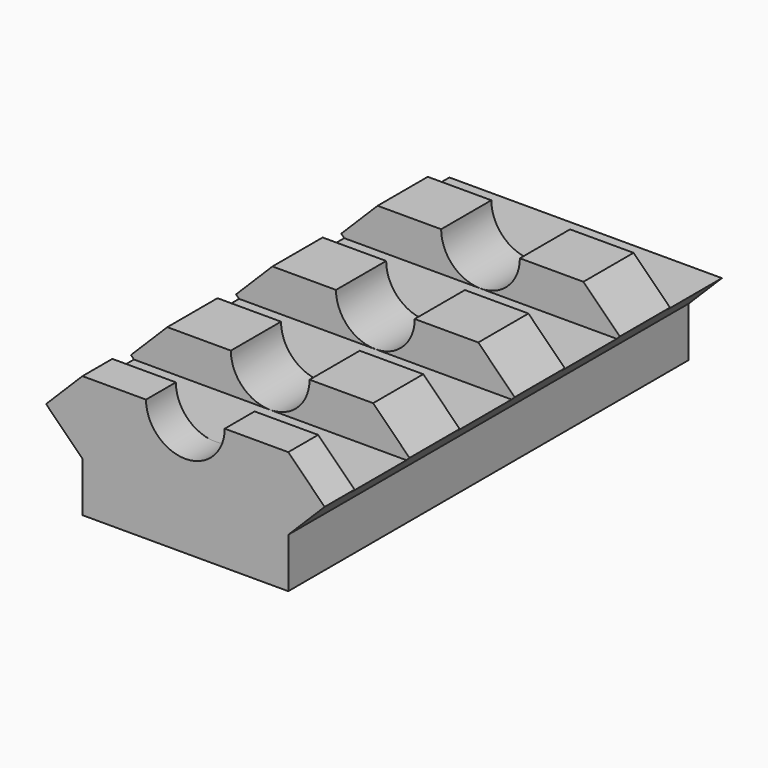
from build123d import *

# Parameters (mm, degrees)
F1_DEPTH = 38.1
F2_DEPTH = 25.4
F3_W     = 5.2324
F3_H     = 2.9972
F3_W_2   = 2.6162
F4_DEPTH = 12.7
F5_R     = 2.9972
F6_DEPTH = 38.1


with BuildPart() as f1:
    # F0 (on Front) → F1 (new body)
    with BuildSketch(Plane.XZ):
        Polygon((7.8359, 0), (-7.8359, 0), (-10.6045, -2.7686), (-9.2202, -4.1529), (-9.2075, -4.1656), (-7.8359, -5.5372), (-7.8359, -9.3218), (7.8359, -9.3218), (7.8359, -5.5372), (10.6045, -2.7686), align=None)
    extrude(amount=F1_DEPTH)

    # F0 (on Front) → F2 (join)
    with BuildSketch(Plane.XZ):
        Polygon((7.8359, 0), (-7.8359, 0), (-10.6045, -2.7686), (-9.2202, -4.1529), (-9.2075, -4.1656), (-7.8359, -5.5372), (-7.8359, -9.3218), (7.8359, -9.3218), (7.8359, -5.5372), (10.6045, -2.7686), align=None)
        Polygon((-9.2075, -4.1656), (-9.2202, -4.1529), (-9.2202, -4.1656), align=None)
    extrude(amount=F2_DEPTH)

    # F3 (on Right) → F4 (cut, symmetric)
    with BuildSketch(Plane.YZ):
        with Locations((-2.6162, -1.4986)):
            Rectangle(F3_W, F3_H)
        with Locations((-11.3157, -1.4986)):
            Rectangle(F3_W_2, F3_H)
        with Locations((-13.9319, -1.4986)):
            Rectangle(F3_W_2, F3_H)
        with Locations((-21.3233, -1.4986)):
            Rectangle(F3_W_2, F3_H)
        with Locations((-23.9395, -1.4986)):
            Rectangle(F3_W_2, F3_H)
        with Locations((-32.639, -1.4986)):
            Rectangle(F3_W, F3_H)
        with Locations((-42.6466, -1.4986)):
            Rectangle(F3_W, F3_H)
    extrude(amount=F4_DEPTH, both=True, mode=Mode.SUBTRACT)

    # F5 (on face) → F6 (cut)
    with BuildSketch(Plane(origin=(0, 0, 0), x_dir=(-1, 0, 0), z_dir=(0, 1, 0))):
        Circle(F5_R)
    extrude(amount=-F6_DEPTH, mode=Mode.SUBTRACT)


solid = f1.part
